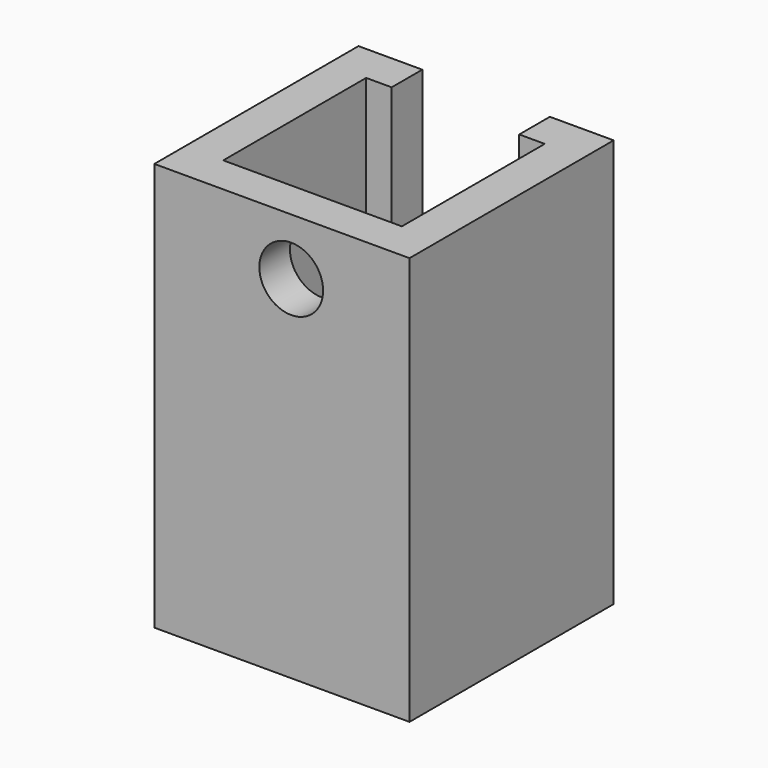
from build123d import *

# Parameters (mm, degrees)
F0_W     = 127
F0_H     = 203.2
F1_DEPTH = 127
F3_DEPTH = 203.2
F4_R     = 15.875
F5_DEPTH = 25.4


with BuildPart() as f1:
    # F0 (on Front) → F1 (new body)
    with BuildSketch(Plane.XZ):
        with Locations((-4.624575, 31.5007)):
            Rectangle(F0_W, F0_H)
    extrude(amount=F1_DEPTH)

    # F2 (on face) → F3 (cut)
    with BuildSketch(Plane.XY.offset(133.1007)):
        Polygon((-49.074575, -107.95), (39.825425, -107.95), (39.825425, -19.05), (27.125425, -19.05), (27.125425, 0), (-36.374575, 0), (-36.374575, -19.05), (-49.074575, -19.05), align=None)
    extrude(amount=-F3_DEPTH, mode=Mode.SUBTRACT)

    # F4 (on face) → F5 (cut)
    with BuildSketch(Plane.XZ.offset(127)):
        with Locations((0, 104.891345)):
            Circle(F4_R)
    extrude(amount=-F5_DEPTH, mode=Mode.SUBTRACT)


solid = f1.part
